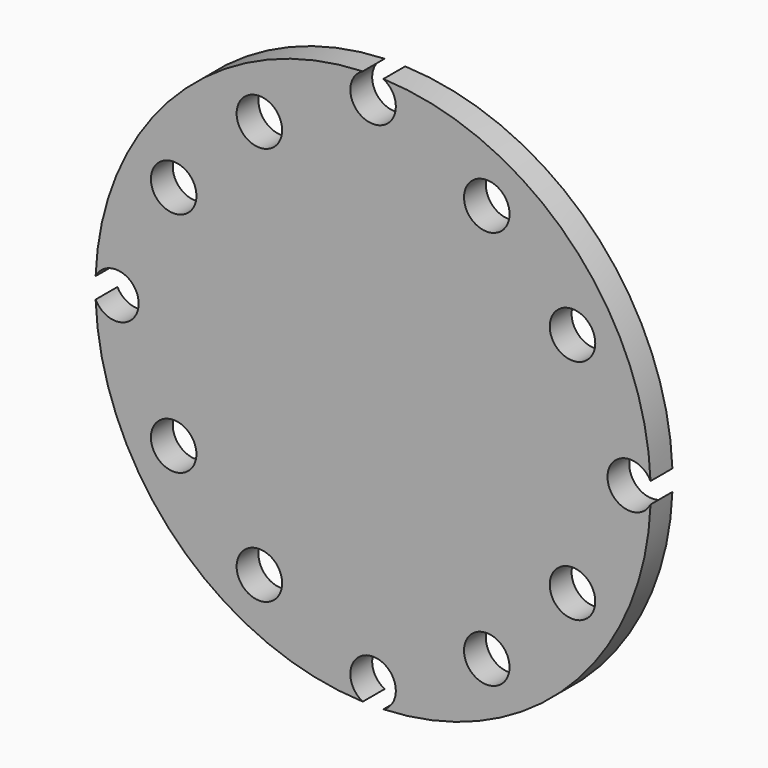
from build123d import *

# Parameters (mm, degrees)
F0_R     = 1
F1_DEPTH = 1.2


with BuildPart() as f1:
    # F0 (on Front) → F1 (new body)
    with BuildSketch(Plane.XZ):
        with BuildLine():
            ThreePointArc((12.1915929204, -0.4528377904), (10.3, 0), (12.1915929204, 0.4528377904))
            ThreePointArc((12.1915929204, 0.4528377904), (8.6267027305, 8.6267027305), (0.4528377904, 12.1915929204))
            ThreePointArc((0.4528377904, 12.1915929204), (0.852302115, 11.823049811), (1, 11.3))
            ThreePointArc((1, 11.3), (-0.523049811, 10.447697885), (-0.4528377904, 12.1915929204))
            ThreePointArc((-0.4528377904, 12.1915929204), (-8.6267027305, 8.6267027305), (-12.1915929204, 0.4528377904))
            ThreePointArc((-12.1915929204, 0.4528377904), (-11.0671834632, 0.9725206734), (-10.3, 0))
            ThreePointArc((-10.3, 0), (-11.0671834632, -0.9725206734), (-12.1915929204, -0.4528377904))
            ThreePointArc((-12.1915929204, -0.4528377904), (-8.6267027305, -8.6267027305), (-0.4528377904, -12.1915929204))
            ThreePointArc((-0.4528377904, -12.1915929204), (-0.523049811, -10.447697885), (1, -11.3))
            ThreePointArc((1, -11.3), (0.852302115, -11.823049811), (0.4528377904, -12.1915929204))
            ThreePointArc((0.4528377904, -12.1915929204), (8.6267027305, -8.6267027305), (12.1915929204, -0.4528377904))
        make_face()
        with Locations((-4.996208501, -8.7626928542)):
            Circle(F0_R, mode=Mode.SUBTRACT)
        with Locations((-8.7629663243, -4.9959350308)):
            Circle(F0_R, mode=Mode.SUBTRACT)
        with Locations((4.9959350308, -8.7629663243)):
            Circle(F0_R, mode=Mode.SUBTRACT)
        with Locations((8.7626928542, -4.996208501)):
            Circle(F0_R, mode=Mode.SUBTRACT)
        with Locations((-8.7626928542, 4.996208501)):
            Circle(F0_R, mode=Mode.SUBTRACT)
        with Locations((-4.9959350308, 8.7629663243)):
            Circle(F0_R, mode=Mode.SUBTRACT)
        with Locations((8.7629663243, 4.9959350308)):
            Circle(F0_R, mode=Mode.SUBTRACT)
        with Locations((4.996208501, 8.7626928542)):
            Circle(F0_R, mode=Mode.SUBTRACT)
    extrude(amount=F1_DEPTH)


solid = f1.part
